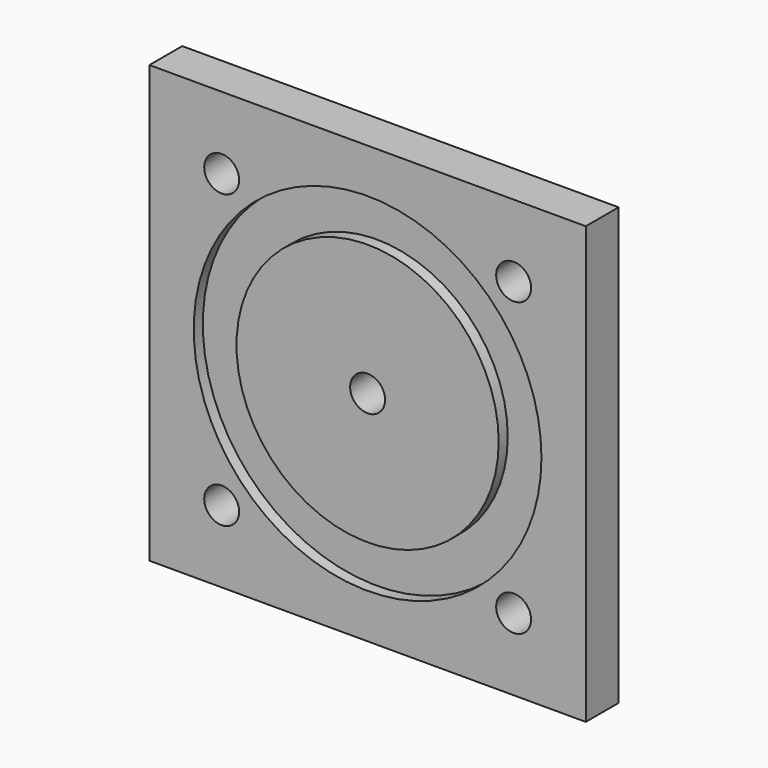
from build123d import *

# Parameters (mm, degrees)
F0_W     = 63.5
F0_H     = 63.5
F0_R     = 25.2984
F0_R_2   = 19.0754
F1_DEPTH = 5.969
F3_R     = 25.2984
F3_R_2   = 19.0754
F4_DEPTH = 1.651
F5_D     = 5.08


with BuildPart() as f1:
    # F0 (on Front) → F1 (new body)
    with BuildSketch(Plane.XZ):
        with Locations((31.75, 31.75)):
            Rectangle(F0_W, F0_H)
        with Locations((31.75, 31.75)):
            Circle(F0_R, mode=Mode.SUBTRACT)
        with Locations((31.75, 31.75)):
            Circle(F0_R)
        with Locations((31.75, 31.75)):
            Circle(F0_R_2, mode=Mode.SUBTRACT)
        with Locations((31.75, 31.75)):
            Circle(F0_R_2)
    extrude(amount=F1_DEPTH)

    # F3 (on face) → F4 (cut)
    with BuildSketch(Plane.XZ.offset(5.969)):
        with Locations((31.75, 31.75)):
            Circle(F3_R)
        with Locations((31.75, 31.75)):
            Circle(F3_R_2, mode=Mode.SUBTRACT)
    extrude(amount=-F4_DEPTH, mode=Mode.SUBTRACT)

    # F5 (through all)
    with Locations(Plane(origin=(0, 0, 0), x_dir=(1, 0, 0), z_dir=(0, 1, 0))):
        with Locations((10.5156, -52.9971), (52.9971, -52.9971), (10.5156, -10.5156), (52.9971, -10.5156), (31.75, -31.75)):
            Hole(F5_D / 2)


solid = f1.part
